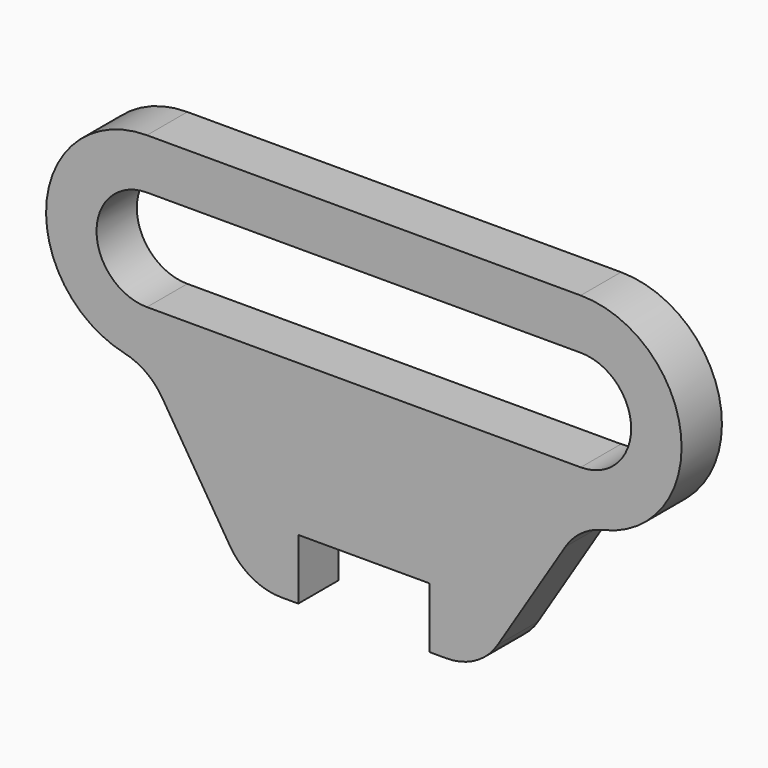
from build123d import *

# Parameters (mm, degrees)
F1_DEPTH = 6.35
F2_R     = 7.62


with BuildPart() as f1:
    # F0 (on Front) → F1 (new body)
    with BuildSketch(Plane.XZ):
        with BuildLine():
            Line((-6.35, 0), (0, 0))
            Line((0, 0), (0, 7.62))
            Line((0, 7.62), (16.51, 7.62))
            Line((16.51, 7.62), (16.51, 0))
            Line((16.51, 0), (22.86, 0))
            Line((22.86, 0), (35.56, 20.32))
            ThreePointArc((35.56, 20.32), (48.26, 33.02), (35.56, 45.72))
            Line((35.56, 45.72), (-19.05, 45.72))
            ThreePointArc((-19.05, 45.72), (-31.75, 33.02), (-19.05, 20.32))
            Line((-19.05, 20.32), (-6.35, 0))
        make_face()
        with BuildLine():
            Line((35.56, 26.67), (-19.05, 26.67))
            ThreePointArc((-19.05, 26.67), (-25.4, 33.02), (-19.05, 39.37))
            Line((-19.05, 39.37), (35.56, 39.37))
            ThreePointArc((35.56, 39.37), (41.91, 33.02), (35.56, 26.67))
        make_face(mode=Mode.SUBTRACT)
    extrude(amount=F1_DEPTH)

    # F2
    f2_edges = [f1.edges().sort_by_distance(p)[0] for p in [
        (22.86, -3.175, 0),
        (-6.35, -3.175, 0),
        (35.56, -3.175, 20.32),
        (-19.05, -3.175, 20.32),
    ]]
    fillet(f2_edges, radius=F2_R)


solid = f1.part
